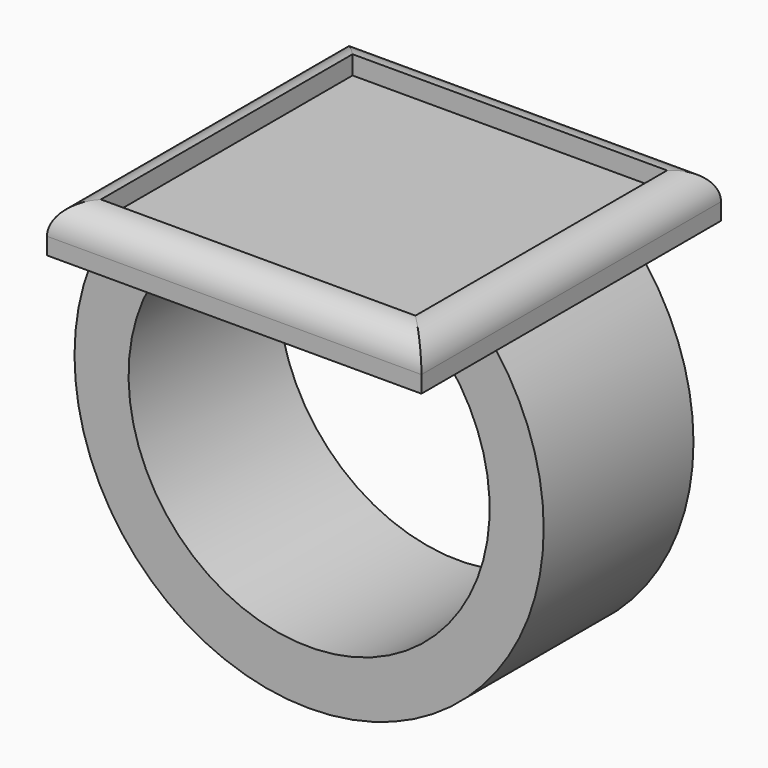
from build123d import *

# Parameters (mm, degrees)
F0_W     = 25.4
F0_H     = 25.4
F1_DEPTH = 3.175
F3_W     = 5.08
F3_H     = 12.7
F7_DEPTH = 6.35
F8_R     = 2.032
F9_DEPTH = 1.27


with BuildPart() as f1:
    # F0 (on Top) → F1 (new body)
    with BuildSketch(Plane.XY):
        Rectangle(F0_W, F0_H)
    extrude(amount=F1_DEPTH)



with BuildPart() as f4:
    # F4: sweep along a path in F2
    with BuildLine(Plane.XZ) as f4_path:
        ThreePointArc((-10.16, 0), (0, -23.5582897328), (10.16, 0))
    # F3 (on face) → F4 (sweep)
    with BuildSketch(Plane(origin=(0, 0, 0), x_dir=(1, 0, 0), z_dir=(0, 0, -1))):
        with Locations((10.16, 0)):
            Rectangle(F3_W, F3_H)
    sweep(path=f4_path.line)


with BuildPart() as f1_1:
    add(f1.part)

    add(f4.part)  # F7 merges F4
    # F6 (on Front) → F7 (join, symmetric)
    with BuildSketch(Plane.XZ):
        with BuildLine():
            ThreePointArc((-10.0130578512, -2.535746045), (-8.9072265211, -1.1822790439), (-7.62, 0))
            Line((-7.62, 0), (-10.16, 0))
            Line((-10.16, 0), (-10.0130578512, -2.535746045))
        make_face()
    extrude(amount=F7_DEPTH, both=True)

    # F8
    f8_edges = [f1_1.edges().sort_by_distance(p)[0] for p in [
        (-12.7, 0, 3.175),
        (12.7, 0, 3.175),
        (0, -12.7, 3.175),
        (0, 12.7, 3.175),
    ]]
    fillet(f8_edges, radius=F8_R)

    # F9 (cut): a face of the model
    f9_faces = [f1_1.faces().sort_by_distance(p)[0] for p in [
        (0, 0, 3.175),
    ]]
    extrude(f9_faces, amount=-F9_DEPTH, mode=Mode.SUBTRACT)


solid = f1_1.part
